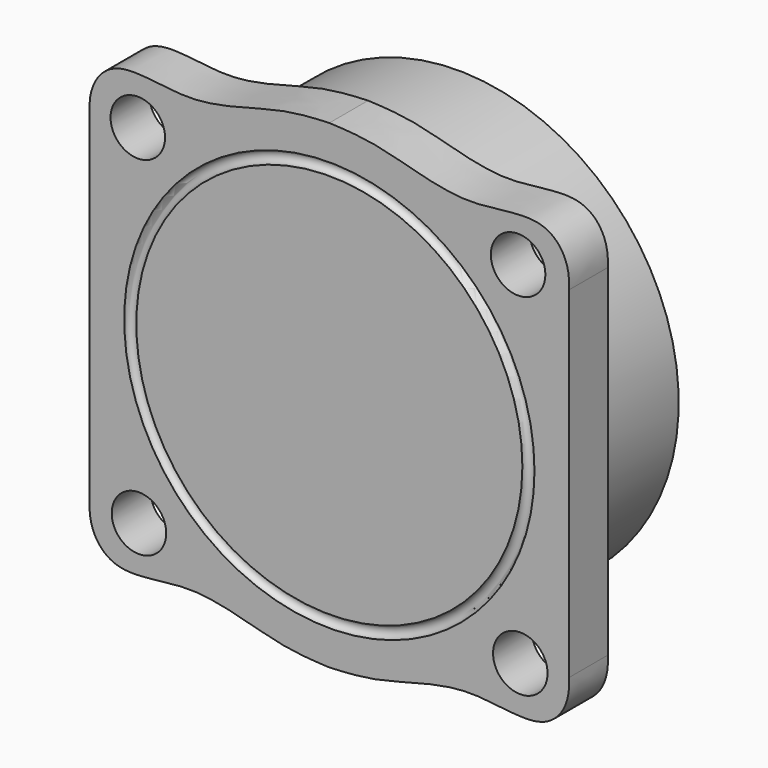
from build123d import *

# Parameters (mm, degrees)
F1_DEPTH = 8
F2_R     = 4.5
F3_DEPTH = 8
F6_R     = 1
F8_W     = 3
F8_H     = 18.55


with BuildPart() as f1:
    # F0 (on Front) → F1 (new body)
    with BuildSketch(Plane.XZ):
        with BuildLine():
            Line((-39.575, 28.175), (-39.575, 0))
            Line((-39.575, 0), (-39.575, -28.175))
            add(Edge.make_bspline(
                [(-39.575, -28.175), (-39.8652448061, -32.0825006212), (-35.9525292205, -38.4365629841), (-22.6949341127, -34.0786260822), (-8.920869255, -39.156793634), (-2.73677378, -39.4421363997), (0, -39.575)],
                knots=[0, 0, 0, 0, 0.2247670207, 0.4893991001, 0.7773525509, 1, 1, 1, 1], degree=3))
            add(Edge.make_bspline(
                [(39.575, -28.175), (39.8652448061, -32.0825006212), (35.9525292205, -38.4365629841), (22.6949341127, -34.0786260822), (8.920869255, -39.156793634), (2.73677378, -39.4421363997), (0, -39.575)],
                knots=[0, 0, 0, 0, 0.2247670207, 0.4893991001, 0.7773525509, 1, 1, 1, 1], degree=3))
            Line((39.575, -28.175), (39.575, 0))
            Line((39.575, 0), (39.575, 28.175))
            add(Edge.make_bspline(
                [(39.575, 28.175), (39.8652448061, 32.0825006212), (35.9525292205, 38.4365629841), (22.6949341127, 34.0786260822), (8.920869255, 39.156793634), (2.73677378, 39.4421363997), (0, 39.575)],
                knots=[0, 0, 0, 0, 0.2247670207, 0.4893991001, 0.7773525509, 1, 1, 1, 1], degree=3))
            add(Edge.make_bspline(
                [(-39.575, 28.175), (-39.8652448061, 32.0825006212), (-35.9525292205, 38.4365629841), (-22.6949341127, 34.0786260822), (-8.920869255, 39.156793634), (-2.73677378, 39.4421363997), (0, 39.575)],
                knots=[0, 0, 0, 0, 0.2247670207, 0.4893991001, 0.7773525509, 1, 1, 1, 1], degree=3))
        make_face()
    extrude(amount=F1_DEPTH)

    # F2 (on face) → F3 (cut, through all)
    with BuildSketch(Plane.XZ.offset(8)):
        with Locations((-31.6271925499, 28.6181603254)):
            Circle(F2_R)
        with Locations((-31.4327607315, -28.8315792456)):
            Circle(F2_R)
        with Locations((31.5314427808, -28.7236231203)):
            Circle(F2_R)
        with Locations((31.1694185133, 29.1160738862)):
            Circle(F2_R)
    extrude(amount=-F3_DEPTH, mode=Mode.SUBTRACT)

    # F7: sweep along a path in F5
    with BuildLine(Plane.XZ.offset(8)) as f7_path:
        CenterArc((0, 0), 32.875, 0, 360)
    # F6 (on Top) → F7 (sweep, cut)
    with BuildSketch(Plane.XY):
        with Locations((32.875, -8)):
            Circle(F6_R)
    sweep(path=f7_path.line, mode=Mode.SUBTRACT)

    # F9: sweep along a path in F4
    with BuildLine(Plane(origin=(0, 0, 0), x_dir=(-1, 0, 0), z_dir=(0, 1, 0))) as f9_path:
        CenterArc((0, 0), 34.95, 0, 360)
    # F8 (on Top) → F9 (sweep)
    with BuildSketch(Plane.XY):
        with Locations((34.95, 9.275)):
            Rectangle(F8_W, F8_H)
    sweep(path=f9_path.line)


solid = f1.part
